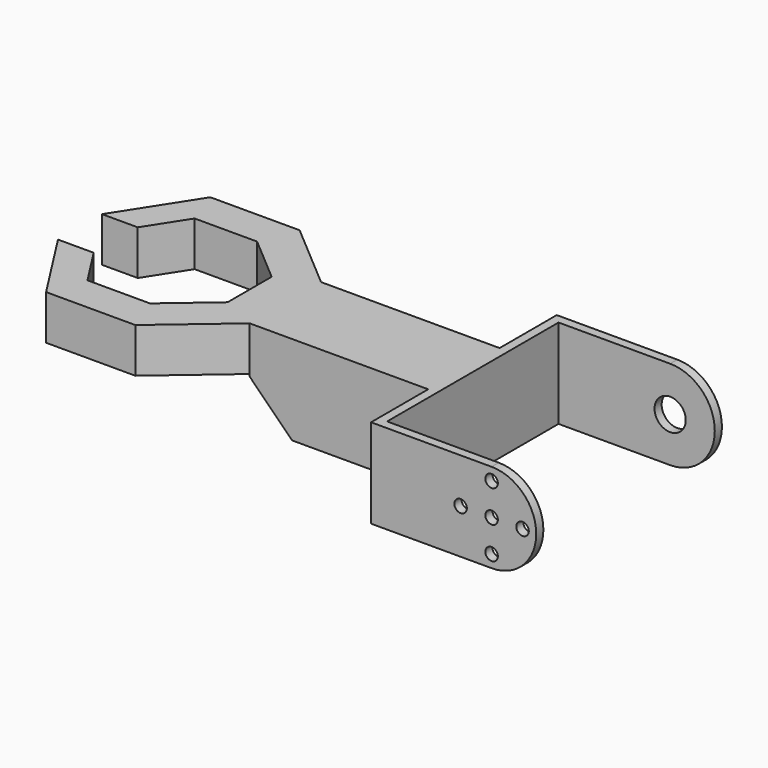
from build123d import *

# Parameters (mm, degrees)
SKETCH_W     = 40
SKETCH_H     = 20
PAD_DEPTH    = 20
SKETCH001_W  = 48
SKETCH001_H  = 20
PAD001_DEPTH = 2
SKETCH002_R  = 1.4
PAD002_DEPTH = 2
SKETCH003_R  = 3.5
PAD003_DEPTH = 2
PAD004_DEPTH = 10
CHAMFER_SIZE = 9.5


with BuildPart() as part:
    # Sketch → Pad (new body)
    with BuildSketch(Plane.XY):
        Rectangle(SKETCH_W, SKETCH_H)
    extrude(amount=PAD_DEPTH)

    # Sketch001 (on Face2 of Pad) → Pad001 (join)
    with BuildSketch(Plane.YZ.offset(20)):
        with Locations((0, 10)):
            Rectangle(SKETCH001_W, SKETCH001_H)
    extrude(amount=PAD001_DEPTH)

    # Sketch002 (on Face2 of Pad001) → Pad002 (join)
    with BuildSketch(Plane.XZ.offset(24)):
        with BuildLine():
            Line((20, 20), (47, 20))
            ThreePointArc((47, 0), (57, 10), (47, 20))
            Line((20, 0), (47, 0))
            Line((20, 20), (20, 0))
        make_face()
        with Locations((47, 10)):
            Circle(SKETCH002_R, mode=Mode.SUBTRACT)
        with Locations((47, 17.205)):
            Circle(SKETCH002_R, mode=Mode.SUBTRACT)
        with Locations((53.934549, 10)):
            Circle(SKETCH002_R, mode=Mode.SUBTRACT)
        with Locations((47, 2.795)):
            Circle(SKETCH002_R, mode=Mode.SUBTRACT)
        with Locations((40.065451, 10)):
            Circle(SKETCH002_R, mode=Mode.SUBTRACT)
    extrude(amount=PAD002_DEPTH)

    # Sketch003 (on Face3 of Pad002) → Pad003 (join)
    with BuildSketch(Plane(origin=(0, 24, 0), x_dir=(-1, 0, 0), z_dir=(0, 1, 0))):
        with BuildLine():
            Line((-20, 20), (-47, 20))
            ThreePointArc((-47, 20), (-57, 10), (-47, 0))
            Line((-20, 0), (-47, 0))
            Line((-20, 20), (-20, 0))
        make_face()
        with Locations((-47, 10)):
            Circle(SKETCH003_R, mode=Mode.SUBTRACT)
    extrude(amount=PAD003_DEPTH)

    # Sketch004 (on Face5 of Pad003) → Pad004 (join)
    with BuildSketch(Plane.XY.offset(20)):
        Polygon((-20, 10), (-35.198684, 23), (-55.198684, 23), (-66, 6.167544), (-58, 6.167544), (-52.33225, 15), (-38.326285, 15), (-28, 6.167544), (-28, -6.167544), (-38.326285, -15), (-52.33225, -15), (-58, -6.167544), (-66, -6.167544), (-55.198684, -23), (-35.198684, -23), (-20, -10), align=None)
    extrude(amount=-PAD004_DEPTH)

    # Chamfer
    chamfer_edges = [part.edges().sort_by_distance(p)[0] for p in [
        (-20, 0, 0),
    ]]
    chamfer(chamfer_edges, length=CHAMFER_SIZE)


solid = part.part
